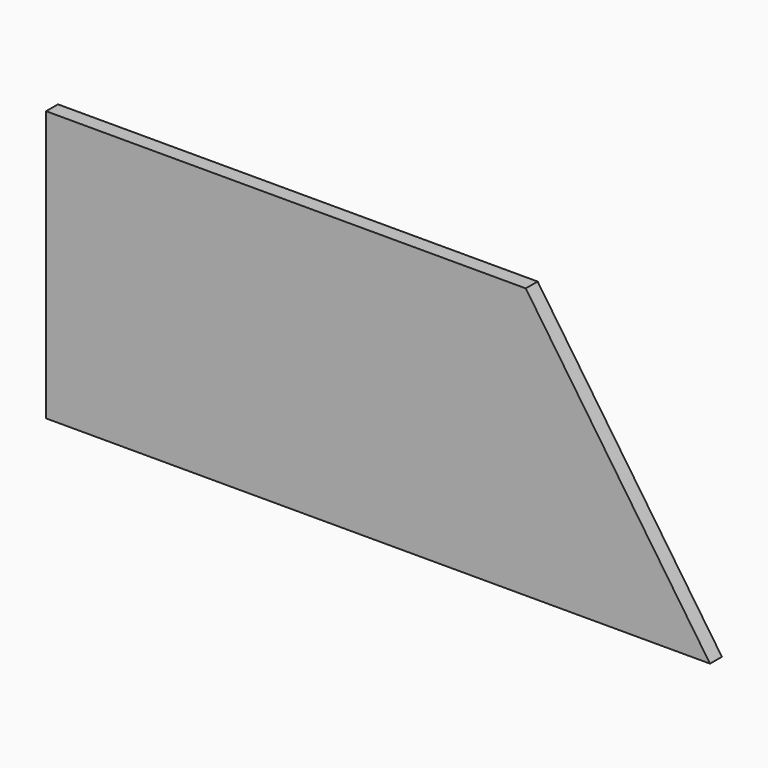
from build123d import *

# Parameters (mm, degrees)
F1_DEPTH = 25


with BuildPart() as f1:
    # F0 (on Front) → F1 (new body)
    with BuildSketch(Plane.XZ):
        Polygon((0, 455), (0, 0), (1117, 0), (807, 455), align=None)
        Polygon((0, 455), (0, 0), (1117, 0), (807, 455), align=None)
        Polygon((0, 455), (0, 0), (1117, 0), (807, 455), align=None)
    extrude(amount=F1_DEPTH)


solid = f1.part
